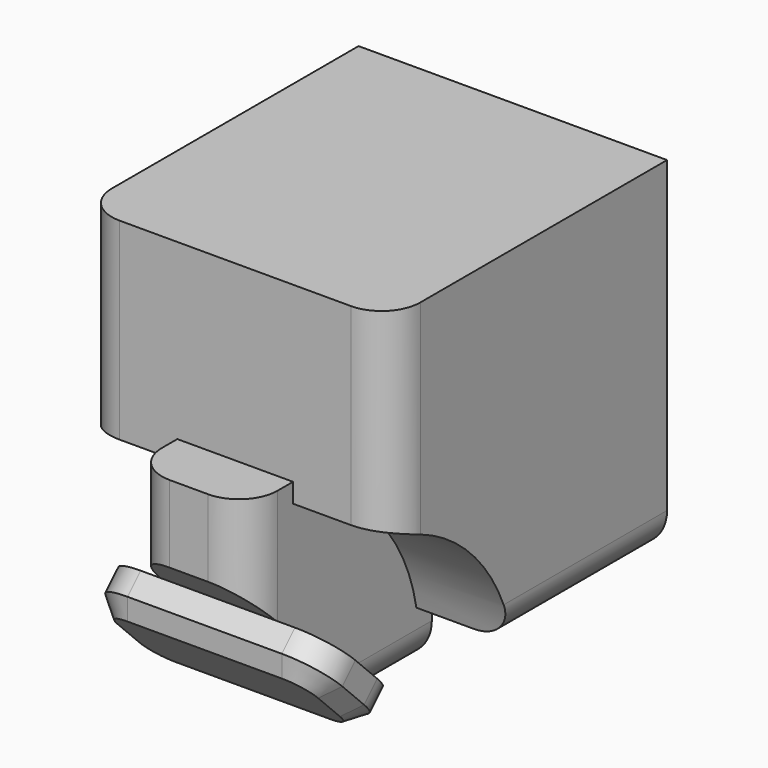
from build123d import *

# Parameters (mm, degrees)
F0_W     = 40
F0_H     = 45
F1_DEPTH = 22.5
F3_DEPTH = 40.001
F5_DEPTH = 7.5
F6_R     = 5
F7_W     = 30
F7_H     = 15
F8_DEPTH = 5
F9_R     = 5
F10_SIZE = 2


with BuildPart() as f1:
    # F0 (on Top) → F1 (new body, symmetric)
    with BuildSketch(Plane.XY):
        Rectangle(F0_W, F0_H)
    extrude(amount=F1_DEPTH, both=True)

    # F2 (on face) → F3 (cut, through all)
    with BuildSketch(Plane(origin=(-20, 0, 0), x_dir=(0, -1, 0), z_dir=(-1, 0, 0))):
        with BuildLine():
            Line((2.5, -22.5), (22.5, -22.5))
            Line((22.5, -22.5), (22.5, -2.5))
            ThreePointArc((22.5, -2.5), (9.39971, -9.39971), (2.5, -22.5))
        make_face()
    extrude(amount=-F3_DEPTH, mode=Mode.SUBTRACT)

    # F4 (on Right) → F5 (join, symmetric)
    with BuildSketch(Plane.YZ):
        Polygon((0, -30), (0, 0), (-30, 0), (-30, -10), (-10, -30), align=None)
    extrude(amount=F5_DEPTH, both=True)

    # F6
    f6_edges = [f1.edges().sort_by_distance(p)[0] for p in [
        (-20, -22.5, 10),
        (20, -22.5, 10),
        (-20, 10, -22.5),
        (20, 10, -22.5),
        (7.5, -30, -5),
        (-7.5, -30, -5),
        (7.5, -5, -30),
        (-7.5, -5, -30),
    ]]
    fillet(f6_edges, radius=F6_R)

    # F7 (on face) → F8 (join)
    with BuildSketch(Plane(origin=(0, -20, -20), x_dir=(1, 0, 0), z_dir=(0, -0.707107, -0.707107))):
        Rectangle(F7_W, F7_H)
    extrude(amount=F8_DEPTH)

    # F9
    f9_edges = [f1.edges().sort_by_distance(p)[0] for p in [
        (-15, -27.071068, -16.464466),
        (-15, -16.464466, -27.071068),
        (15, -16.464466, -27.071068),
        (15, -27.071068, -16.464466),
    ]]
    fillet(f9_edges, radius=F9_R)

    # F10
    f10_edges = [f1.edges().sort_by_distance(p)[0] for p in [
        (0, -18.232233, -28.838835),
    ]]
    chamfer(f10_edges, length=F10_SIZE)


solid = f1.part
